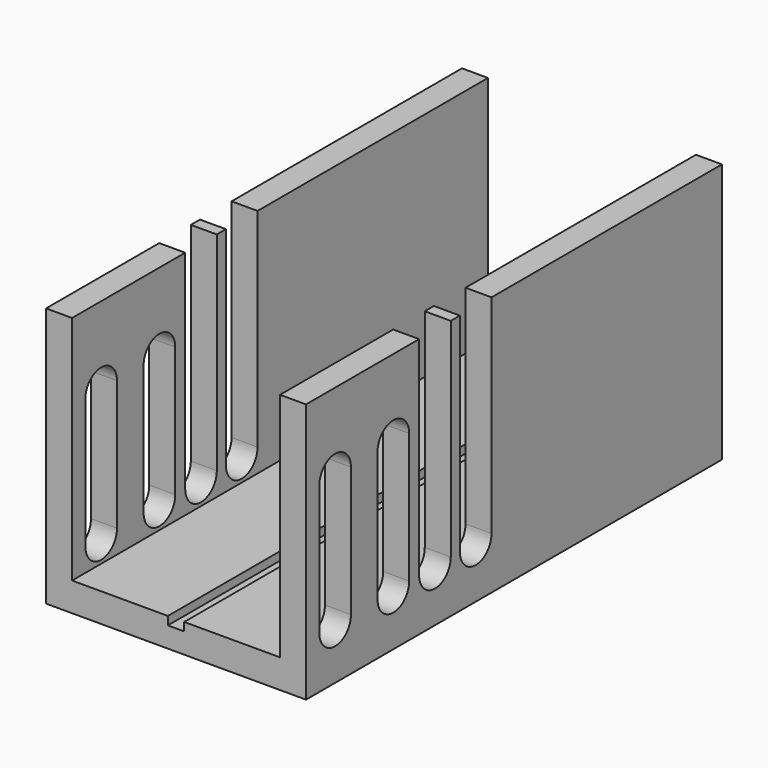
from build123d import *

# Parameters (mm, degrees)
F1_DEPTH = 63.5
F3_DEPTH = 63.501
F4_W     = 3.9878
F4_H     = 2.032
F5_DEPTH = 63.5
F7_DEPTH = 63.501


with BuildPart() as f1:
    # F0 (on Front) → F1 (new body, symmetric)
    with BuildSketch(Plane.XZ):
        Polygon((31.75, -31.75), (31.75, 31.75), (25.4, 31.75), (25.4, -24.7142), (-25.4, -24.7142), (-25.4, 31.75), (-31.75, 31.75), (-31.75, -31.75), align=None)
    extrude(amount=F1_DEPTH, both=True)

    # F2 (on face) → F3 (cut, through all)
    with BuildSketch(Plane.YZ.offset(31.75)):
        with BuildLine():
            ThreePointArc((-59.436, 12.7), (-54.61, 7.874), (-49.784, 12.7))
            ThreePointArc((-49.784, 12.7), (-54.61, 17.526), (-59.436, 12.7))
        make_face()
        with BuildLine():
            Line((-49.784, -19.05), (-49.784, 12.7))
            ThreePointArc((-49.784, 12.7), (-54.61, 7.874), (-59.436, 12.7))
            Line((-59.436, 12.7), (-59.436, -19.05))
            ThreePointArc((-59.436, -19.05), (-54.61, -14.224), (-49.784, -19.05))
        make_face()
        with BuildLine():
            ThreePointArc((-59.436, -19.05), (-54.61, -23.876), (-49.784, -19.05))
            ThreePointArc((-49.784, -19.05), (-54.61, -14.224), (-59.436, -19.05))
        make_face()
        with BuildLine():
            ThreePointArc((-41.656, 12.7), (-36.83, 7.874), (-32.004, 12.7))
            ThreePointArc((-32.004, 12.7), (-36.83, 17.526), (-41.656, 12.7))
        make_face()
        with BuildLine():
            Line((-32.004, -19.05), (-32.004, 12.7))
            ThreePointArc((-32.004, 12.7), (-36.83, 7.874), (-41.656, 12.7))
            Line((-41.656, 12.7), (-41.656, -19.05))
            ThreePointArc((-41.656, -19.05), (-36.83, -14.224), (-32.004, -19.05))
        make_face()
        with BuildLine():
            ThreePointArc((-41.656, -19.05), (-36.83, -23.876), (-32.004, -19.05))
            ThreePointArc((-32.004, -19.05), (-36.83, -14.224), (-41.656, -19.05))
        make_face()
    extrude(amount=-F3_DEPTH, mode=Mode.SUBTRACT)

    # F4 (on Front) → F5 (cut, symmetric)
    with BuildSketch(Plane.XZ):
        with Locations((0, -25.7302)):
            Rectangle(F4_W, F4_H)
    extrude(amount=F5_DEPTH, both=True, mode=Mode.SUBTRACT)

    # F6 (on face) → F7 (cut, through all)
    with BuildSketch(Plane.YZ.offset(31.75)):
        with BuildLine():
            ThreePointArc((-28.956, -19.05), (-24.13, -23.876), (-19.304, -19.05))
            ThreePointArc((-19.304, -19.05), (-24.13, -14.224), (-28.956, -19.05))
        make_face()
        with BuildLine():
            ThreePointArc((-16.51, -19.05), (-11.684, -23.876), (-6.858, -19.05))
            ThreePointArc((-6.858, -19.05), (-11.684, -14.224), (-16.51, -19.05))
        make_face()
        with BuildLine():
            ThreePointArc((-28.956, -19.05), (-24.13, -14.224), (-19.304, -19.05))
            Line((-19.304, -19.05), (-19.304, 31.75))
            Line((-19.304, 31.75), (-28.956, 31.75))
            Line((-28.956, 31.75), (-28.956, -19.05))
        make_face()
        with BuildLine():
            Line((-6.858, 31.75), (-16.51, 31.75))
            Line((-16.51, 31.75), (-16.51, -19.05))
            ThreePointArc((-16.51, -19.05), (-11.684, -14.224), (-6.858, -19.05))
            Line((-6.858, -19.05), (-6.858, 31.75))
        make_face()
    extrude(amount=-F7_DEPTH, mode=Mode.SUBTRACT)


solid = f1.part
